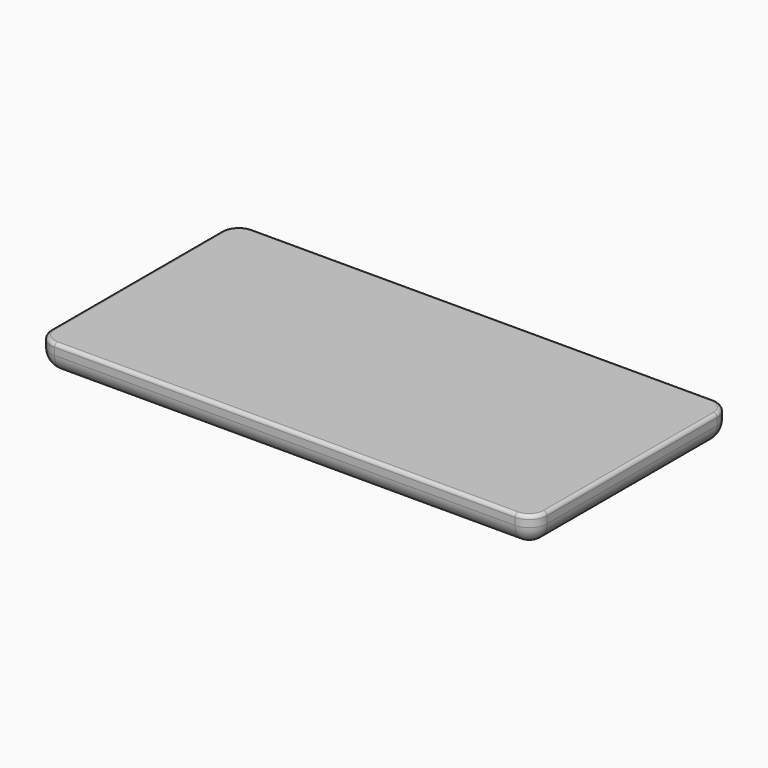
from build123d import *

# Parameters (mm, degrees)
F1_DEPTH = 8
F2_R     = 5
F3_R     = 1


with BuildPart() as f1:
    # F0 (on Top) → F1 (new body)
    with BuildSketch(Plane.XY):
        with BuildLine():
            Line((68.7570372224, 46.9683377401), (-61.2429627776, 46.9683377401))
            ThreePointArc((-61.2429627776, 46.9683377401), (-64.7784966835, 45.503871646), (-66.2429627776, 41.9683377401))
            Line((-66.2429627776, 41.9683377401), (-66.2429627776, -18.0316622599))
            ThreePointArc((-66.2429627776, -18.0316622599), (-64.7784966835, -21.5671961658), (-61.2429627776, -23.0316622599))
            Line((-61.2429627776, -23.0316622599), (68.7570372224, -23.0316622599))
            ThreePointArc((68.7570372224, -23.0316622599), (72.2925711283, -21.5671961658), (73.7570372224, -18.0316622599))
            Line((73.7570372224, -18.0316622599), (73.7570372224, 41.9683377401))
            ThreePointArc((73.7570372224, 41.9683377401), (72.2925711283, 45.503871646), (68.7570372224, 46.9683377401))
        make_face()
    extrude(amount=F1_DEPTH)

    # F2
    f2_edges = [f1.edges().sort_by_distance(p)[0] for p in [
        (3.757037, -23.031662, 0),
        (73.757037, 11.968338, 0),
    ]]
    fillet(f2_edges, radius=F2_R)

    # F3
    f3_edges = [f1.edges().sort_by_distance(p)[0] for p in [
        (3.757037, 46.968338, 8),
        (-64.778497, 45.503872, 8),
        (-66.242963, 11.968338, 8),
        (-64.778497, -21.567196, 8),
        (3.757037, -23.031662, 8),
        (72.292571, -21.567196, 8),
        (73.757037, 11.968338, 8),
        (72.292571, 45.503872, 8),
    ]]
    fillet(f3_edges, radius=F3_R)


solid = f1.part
